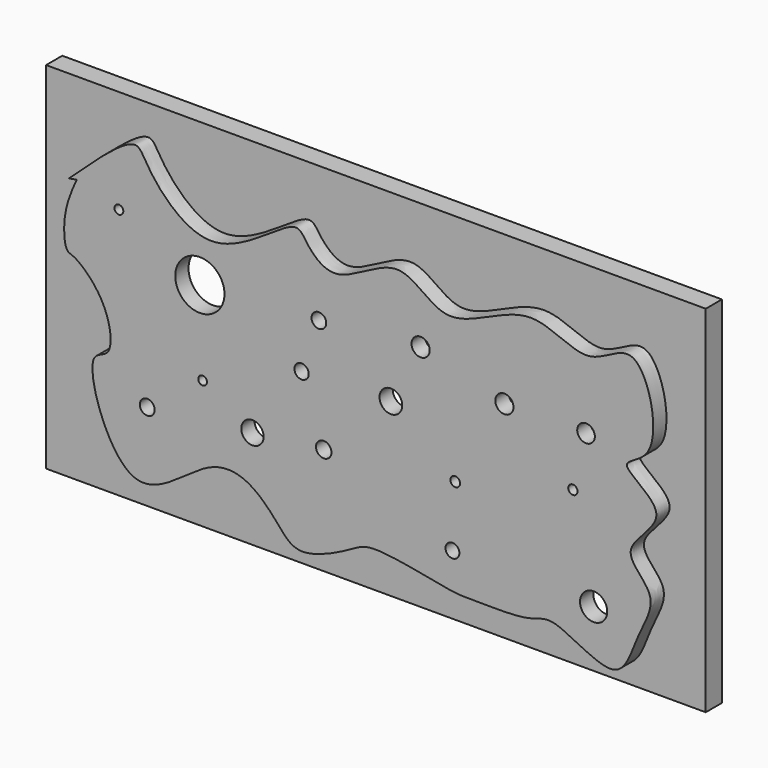
from build123d import *

# Parameters (mm, degrees)
F0_R     = 1.0292886914
F0_R_2   = 1.5409690269
F0_R_3   = 1.0684706581
F0_R_4   = 0.6044179837
F0_R_5   = 0.9556673467
F0_R_6   = 1.8775920292
F0_R_7   = 0.668968074
F0_R_8   = 0.6410828113
F0_R_9   = 0.6119264023
F0_R_10  = 0.9839218345
F0_R_11  = 3.3979849831
F0_R_12  = 1.0158913087
F0_R_13  = 1.5674141974
F0_R_14  = 1.2569841778
F0_R_15  = 1.2569864525
F0_R_16  = 1.2163670207
F1_DEPTH = 2.286
F0_W     = 91.092467308
F0_H     = 49.0601863712
F2_DEPTH = 2.794


with BuildPart() as f1:
    # F0 (on Front) → F1 (new body)
    with BuildSketch(Plane.XZ):
        with BuildLine():
            add(Edge.make_bspline(
                [(-42.2350093722, 7.0954817347), (-38.5016535118, 10.5879047163), (-32.996373329, 15.7379005241), (-31.594752378, 11.8213316394), (-22.7084226994, 1.3811625454), (-11.0819758489, 13.0483625897), (-9.4951885739, 9.7289273542), (-5.2228243188, 5.4114948276), (3.5657483461, 13.7594503632), (9.792925823, 4.2409950249), (21.3259717855, 13.8611351479), (29.3718875219, 6.4107487998), (36.6854066153, 14.528673538), (40.3099374025, -1.2790935545), (32.0216341996, -2.3203328749), (42.4249715544, -7.2187775395), (32.5589191045, -12.910924164), (39.7377960631, -17.2789031645), (35.9574247382, -22.8918424534), (33.9387686428, -30.8634499077), (24.5147334589, -23.9362856283), (21.5505613343, -26.2952049307), (13.1998140059, -25.9188719206), (10.977919701, -26.1883315171), (-0.5008395657, -23.4789174716), (-3.1744947745, -25.3919907702), (-10.7063833906, -29.10560394), (-13.5368254243, -25.2122081316), (-17.457287982, -21.1958782039), (-23.6634282649, -20.5529312138), (-34.3363457176, -32.3304681146), (-40.8900387745, -12.6213006406), (-35.9514126746, -13.1274565683), (-36.742357289, -6.1666361314), (-41.3237232143, -2.0092819993), (-42.8627702972, -2.0118650303), (-43.1454653809, 2.7486921211), (-41.8571579215, 5.7906265), (-41.1573383725, 7.3142381231)],
                knots=[0, 0, 0, 0, 0.0374193193, 0.0551792663, 0.0919374991, 0.1309391068, 0.1473944308, 0.1714277482, 0.2047897302, 0.2352948429, 0.2731248284, 0.3055767402, 0.3330988307, 0.3694670892, 0.3917483792, 0.4188832072, 0.4474404259, 0.472513662, 0.4996621237, 0.5268139876, 0.5592957701, 0.5805236878, 0.6109395918, 0.6300075339, 0.6662160858, 0.6877113833, 0.7172391428, 0.7394942202, 0.7650952466, 0.7914315327, 0.8279150461, 0.8686935587, 0.8858383863, 0.91223045, 0.9393652772, 0.9509023756, 0.9735488289, 0.9969627908, 0.9969627908, 0.9969627908, 0.9969627908], degree=3))
            add(Edge.make_bspline(
                [(-42.2350093722, 7.0954817347), (-41.8301936078, 7.1555104525), (-41.4253778433, 7.2155391703), (-41.1573383725, 7.3142381231)],
                knots=[0, 0, 0, 0, 0.438753306, 0.438753306, 0.438753306, 0.438753306], degree=3))
        make_face()
        with Locations((-31.4345955849, -17.2135978937)):
            Circle(F0_R, mode=Mode.SUBTRACT)
        with Locations((-16.9084221125, -15.5889606103)):
            Circle(F0_R_2, mode=Mode.SUBTRACT)
        with Locations((-7.0650307462, -14.4421570003)):
            Circle(F0_R_3, mode=Mode.SUBTRACT)
        with Locations((-23.7892400473, -11.4795826375)):
            Circle(F0_R_4, mode=Mode.SUBTRACT)
        with Locations((10.710417293, -20.9407079965)):
            Circle(F0_R_5, mode=Mode.SUBTRACT)
        with Locations((30.2060674876, -21.4185416698)):
            Circle(F0_R_6, mode=Mode.SUBTRACT)
        with Locations((11.0926823691, -12.4352518469)):
            Circle(F0_R_7, mode=Mode.SUBTRACT)
        with Locations((27.3390598595, -8.1347404048)):
            Circle(F0_R_8, mode=Mode.SUBTRACT)
        with Locations((-35.3528372943, 5.5313287303)):
            Circle(F0_R_9, mode=Mode.SUBTRACT)
        with Locations((-10.1231718436, -5.9367013164)):
            Circle(F0_R_10, mode=Mode.SUBTRACT)
        with Locations((-24.1715088487, 0)):
            Circle(F0_R_11, mode=Mode.SUBTRACT)
        with Locations((-7.7339992858, 1.0396834696)):
            Circle(F0_R_12, mode=Mode.SUBTRACT)
        with BuildLine():
            add(Edge.make_bspline(
                [(-41.1573383725, 7.3142381231), (-41.0307389859, 7.3608552383), (-40.7705043691, 7.5104732459), (-40.8397874255, 7.7532545168), (-40.8834889531, 7.906393148)],
                knots=[0.438753306, 0.438753306, 0.438753306, 0.438753306, 0.6459836041, 1, 1, 1, 1], degree=3))
            add(Edge.make_bspline(
                [(-41.1573383725, 7.3142381231), (-41.0665592742, 7.5118777711), (-40.9750241137, 7.7091354595), (-40.8834889531, 7.906393148)],
                knots=[0.9969627908, 0.9969627908, 0.9969627908, 0.9969627908, 1, 1, 1, 1], degree=3))
        make_face(mode=Mode.SUBTRACT)
        with Locations((2.2049618419, -5.5544334464)):
            Circle(F0_R_13, mode=Mode.SUBTRACT)
        with Locations((17.8779363632, -0.7760881563)):
            Circle(F0_R_14, mode=Mode.SUBTRACT)
        with Locations((6.3143367879, 2.3776201997)):
            Circle(F0_R_15, mode=Mode.SUBTRACT)
        with Locations((29.1548296809, -0.6805208977)):
            Circle(F0_R_16, mode=Mode.SUBTRACT)
        with BuildLine():
            add(Edge.make_bspline(
                [(-41.1573383725, 7.3142381231), (-41.0665592742, 7.5118777711), (-40.9750241137, 7.7091354595), (-40.8834889531, 7.906393148)],
                knots=[0.9969627908, 0.9969627908, 0.9969627908, 0.9969627908, 1, 1, 1, 1], degree=3))
            add(Edge.make_bspline(
                [(-41.1573383725, 7.3142381231), (-41.0307389859, 7.3608552383), (-40.7705043691, 7.5104732459), (-40.8397874255, 7.7532545168), (-40.8834889531, 7.906393148)],
                knots=[0.438753306, 0.438753306, 0.438753306, 0.438753306, 0.6459836041, 1, 1, 1, 1], degree=3))
        make_face()
    extrude(amount=F1_DEPTH)


with BuildPart() as f2:
    # F0 (on Front) → F2 (new body)
    with BuildSketch(Plane.XZ):
        with Locations((-1.6894005239, -6.2169944867)):
            Rectangle(F0_W, F0_H)
        with BuildLine():
            add(Edge.make_bspline(
                [(-42.2350093722, 7.0954817347), (-41.8301936078, 7.1555104525), (-41.4253778433, 7.2155391703), (-41.1573383725, 7.3142381231)],
                knots=[0, 0, 0, 0, 0.438753306, 0.438753306, 0.438753306, 0.438753306], degree=3))
            add(Edge.make_bspline(
                [(-42.2350093722, 7.0954817347), (-38.5016535118, 10.5879047163), (-32.996373329, 15.7379005241), (-31.594752378, 11.8213316394), (-22.7084226994, 1.3811625454), (-11.0819758489, 13.0483625897), (-9.4951885739, 9.7289273542), (-5.2228243188, 5.4114948276), (3.5657483461, 13.7594503632), (9.792925823, 4.2409950249), (21.3259717855, 13.8611351479), (29.3718875219, 6.4107487998), (36.6854066153, 14.528673538), (40.3099374025, -1.2790935545), (32.0216341996, -2.3203328749), (42.4249715544, -7.2187775395), (32.5589191045, -12.910924164), (39.7377960631, -17.2789031645), (35.9574247382, -22.8918424534), (33.9387686428, -30.8634499077), (24.5147334589, -23.9362856283), (21.5505613343, -26.2952049307), (13.1998140059, -25.9188719206), (10.977919701, -26.1883315171), (-0.5008395657, -23.4789174716), (-3.1744947745, -25.3919907702), (-10.7063833906, -29.10560394), (-13.5368254243, -25.2122081316), (-17.457287982, -21.1958782039), (-23.6634282649, -20.5529312138), (-34.3363457176, -32.3304681146), (-40.8900387745, -12.6213006406), (-35.9514126746, -13.1274565683), (-36.742357289, -6.1666361314), (-41.3237232143, -2.0092819993), (-42.8627702972, -2.0118650303), (-43.1454653809, 2.7486921211), (-41.8571579215, 5.7906265), (-41.1573383725, 7.3142381231)],
                knots=[0, 0, 0, 0, 0.0374193193, 0.0551792663, 0.0919374991, 0.1309391068, 0.1473944308, 0.1714277482, 0.2047897302, 0.2352948429, 0.2731248284, 0.3055767402, 0.3330988307, 0.3694670892, 0.3917483792, 0.4188832072, 0.4474404259, 0.472513662, 0.4996621237, 0.5268139876, 0.5592957701, 0.5805236878, 0.6109395918, 0.6300075339, 0.6662160858, 0.6877113833, 0.7172391428, 0.7394942202, 0.7650952466, 0.7914315327, 0.8279150461, 0.8686935587, 0.8858383863, 0.91223045, 0.9393652772, 0.9509023756, 0.9735488289, 0.9969627908, 0.9969627908, 0.9969627908, 0.9969627908], degree=3))
        make_face(mode=Mode.SUBTRACT)
    extrude(amount=-F2_DEPTH)


solid = Compound([f1.part, f2.part])
